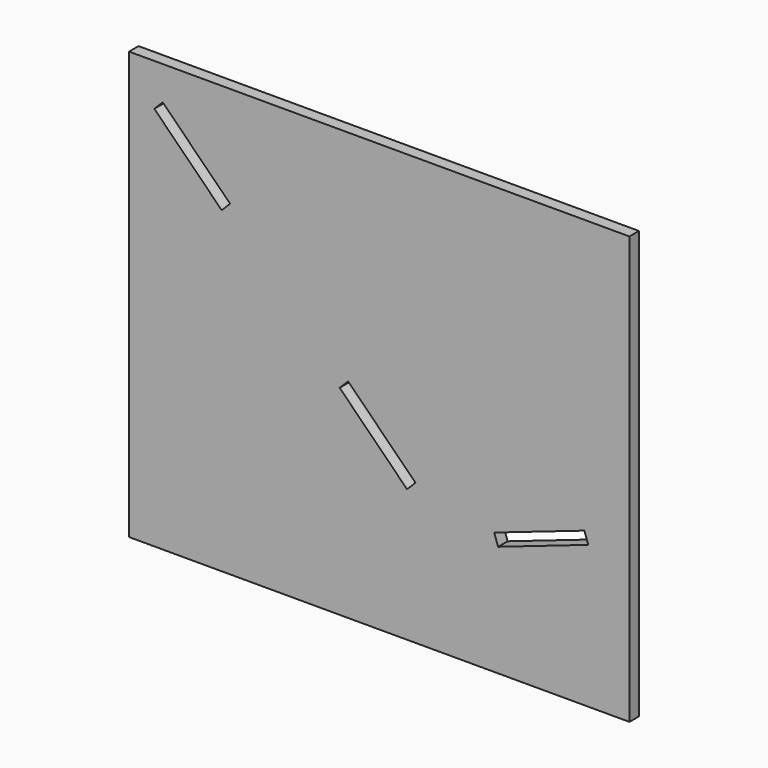
from build123d import *

# Parameters (mm, degrees)
F0_W     = 266.7
F0_H     = 227.774866
F1_DEPTH = 6.35


with BuildPart() as f1:
    # F0 (on Front) → F1 (new body)
    with BuildSketch(Plane.XZ):
        with Locations((0, 113.887433)):
            Rectangle(F0_W, F0_H)
        Polygon((-16.60667, 111.031537), (19.314354, 75.110512), (14.824226, 70.620384), (-21.096798, 106.541409), align=None, mode=Mode.SUBTRACT)
        Polygon((63.35911, 59.407147), (61.29365, 65.411843), (109.331217, 81.935528), (111.396677, 75.930832), align=None, mode=Mode.SUBTRACT)
        Polygon((-119.879616, 205.324226), (-115.389488, 209.814354), (-79.468463, 173.89333), (-83.958591, 169.403202), align=None, mode=Mode.SUBTRACT)
    extrude(amount=F1_DEPTH)


solid = f1.part
